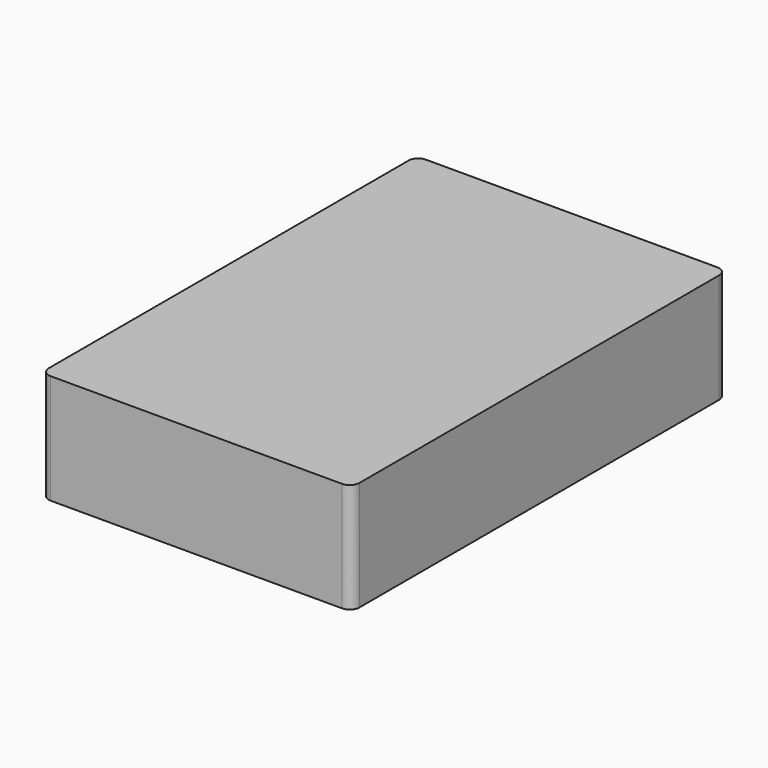
from build123d import *

# Parameters (mm, degrees)
PAD_DEPTH = 91.44


with BuildPart() as part:
    # Sketch → Pad (new body)
    with BuildSketch(Plane.XY):
        with BuildLine():
            ThreePointArc((-121.54, 195.58), (-127.196854, 193.236854), (-129.54, 187.58))
            Line((-129.54, -187.58), (-129.54, 187.58))
            ThreePointArc((-129.54, -187.58), (-127.196854, -193.236854), (-121.54, -195.58))
            Line((121.54, -195.58), (-121.54, -195.58))
            ThreePointArc((121.54, -195.58), (127.196854, -193.236854), (129.54, -187.58))
            Line((129.54, 187.58), (129.54, -187.58))
            ThreePointArc((129.54, 187.58), (127.196854, 193.236854), (121.54, 195.58))
            Line((-121.54, 195.58), (121.54, 195.58))
        make_face()
    extrude(amount=PAD_DEPTH)


solid = part.part
